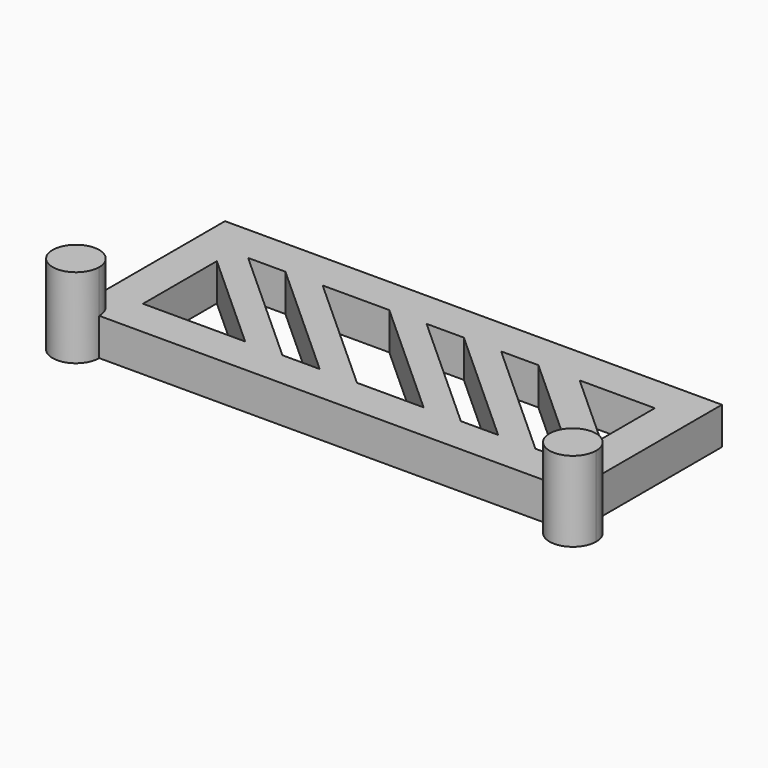
from build123d import *

# Parameters (mm, degrees)
F1_DEPTH = 2.54
F2_DEPTH = 5.461


with BuildPart() as f1:
    # F0 (on Top) → F1 (new body)
    with BuildSketch(Plane.XY):
        with BuildLine():
            Line((0, 0), (0, 1.5875))
            ThreePointArc((0, 1.5875), (-1.122532, 1.122532), (-1.5875, 0))
            Line((-1.5875, 0), (0, 0))
        make_face()
        with BuildLine():
            ThreePointArc((-32.279158, 0), (-32.744126, 1.122532), (-33.866658, 1.5875))
            Line((-33.866658, 1.5875), (-33.866658, 0))
            Line((-33.866658, 0), (-32.279158, 0))
        make_face()
        with BuildLine():
            ThreePointArc((-1.5875, 0), (-1.122532, 1.122532), (0, 1.5875))
            Line((0, 1.5875), (0, 12.7))
            Line((0, 12.7), (-33.866658, 12.7))
            Line((-33.866658, 12.7), (-33.866658, 9.68375))
            Line((-33.866658, 9.68375), (-33.866658, 7.14375))
            Line((-33.866658, 7.14375), (-33.866658, 1.5875))
            ThreePointArc((-33.866658, 1.5875), (-32.744126, 1.122532), (-32.279158, 0))
            Line((-32.279158, 0), (-25.961585, 0))
            Line((-25.961585, 0), (-23.421585, 0))
            Line((-23.421585, 0), (-16.473984, 0))
            Line((-16.473984, 0), (-13.933984, 0))
            Line((-13.933984, 0), (-1.5875, 0))
        make_face()
        Polygon((-30.256754, 10.16), (-27.716754, 10.16), (-25.176754, 10.16), (-20.635653, 10.16), (-18.095653, 10.16), (-15.555653, 10.16), (-13.015653, 10.16), (-10.475653, 10.16), (-7.664961, 10.16), (-2.54, 10.16), (-2.54, 5.528615), (-2.54, 2.988615), (-2.54, 2.54), (-4.583576, 2.54), (-7.123576, 2.54), (-9.663576, 2.54), (-12.203576, 2.54), (-16.744676, 2.54), (-19.284676, 2.54), (-21.824676, 2.54), (-24.364676, 2.54), (-31.326658, 2.54), (-31.326658, 8.831487), (-31.326658, 10.16), align=None, mode=Mode.SUBTRACT)
        Polygon((-25.176754, 10.16), (-27.716754, 10.16), (-19.284676, 2.54), (-16.744676, 2.54), align=None)
        Polygon((-21.824676, 2.54), (-30.256754, 10.16), (-31.326658, 10.16), (-31.326658, 8.831487), (-24.364676, 2.54), align=None)
        Polygon((-18.095653, 10.16), (-20.635653, 10.16), (-12.203576, 2.54), (-9.663576, 2.54), align=None)
        Polygon((-13.015653, 10.16), (-15.555653, 10.16), (-7.123576, 2.54), (-4.583576, 2.54), align=None)
        Polygon((-7.664961, 10.16), (-10.475653, 10.16), (-2.54, 2.988615), (-2.54, 5.528615), align=None)
    extrude(amount=F1_DEPTH)

    # F0 (on Top) → F2 (join)
    with BuildSketch(Plane.XY):
        with BuildLine():
            Line((-33.866658, 0), (-33.866658, 1.5875))
            ThreePointArc((-33.866658, 1.5875), (-34.98919, -1.122532), (-32.279158, 0))
            Line((-32.279158, 0), (-33.866658, 0))
        make_face()
        with BuildLine():
            ThreePointArc((1.5875, 0), (1.122532, 1.122532), (0, 1.5875))
            Line((0, 1.5875), (0, 0))
            Line((0, 0), (-1.5875, 0))
            ThreePointArc((-1.5875, 0), (0, -1.5875), (1.5875, 0))
        make_face()
        with BuildLine():
            ThreePointArc((-32.279158, 0), (-32.744126, 1.122532), (-33.866658, 1.5875))
            Line((-33.866658, 1.5875), (-33.866658, 0))
            Line((-33.866658, 0), (-32.279158, 0))
        make_face()
        with BuildLine():
            Line((0, 0), (0, 1.5875))
            ThreePointArc((0, 1.5875), (-1.122532, 1.122532), (-1.5875, 0))
            Line((-1.5875, 0), (0, 0))
        make_face()
    extrude(amount=F2_DEPTH)


solid = f1.part
